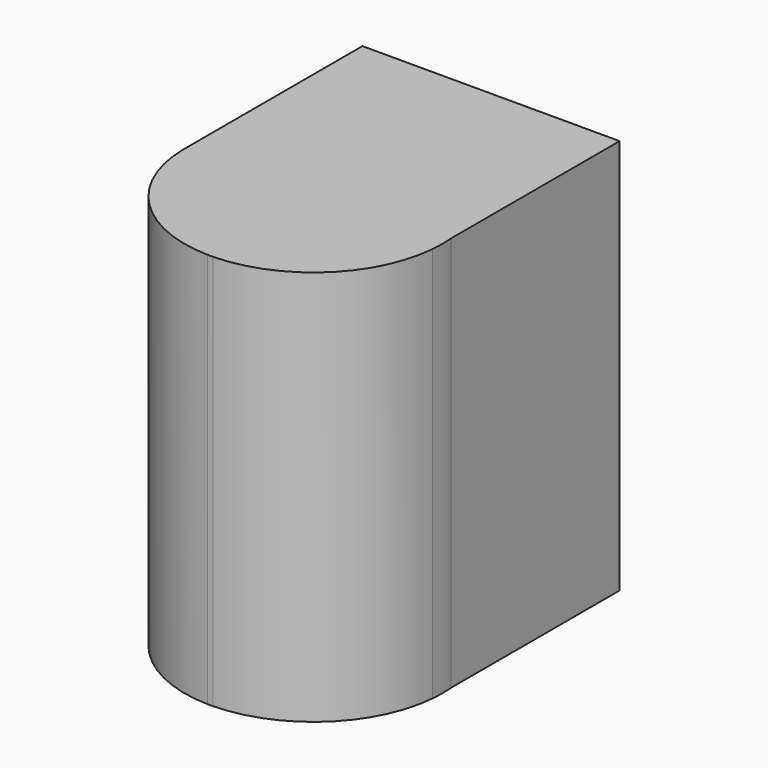
from build123d import *

# Parameters (mm, degrees)
F1_DEPTH = 508


with BuildPart() as f1:
    # F0 (on Top) → F1 (new body)
    with BuildSketch(Plane.XY):
        with BuildLine():
            Line((168.20993, 223.271681), (-161.99007, 223.271681))
            Line((-161.99007, 223.271681), (-161.99007, -58.067597))
            Line((-161.99007, -58.067597), (-161.99007, -66.242225))
            ThreePointArc((-161.99007, -66.242225), (-113.341942, -179.388298), (0, -227.578319))
            Line((0, -227.578319), (6.836314, -227.578319))
            ThreePointArc((6.836314, -227.578319), (116.300399, -183.126755), (168.20993, -76.996043))
            Line((168.20993, -76.996043), (168.20993, -47.313779))
            Line((168.20993, -47.313779), (168.20993, 223.271681))
        make_face()
        with BuildLine():
            Line((-161.99007, -66.242225), (-161.99007, -58.067597))
            ThreePointArc((-161.99007, -58.067597), (-162.040562, -62.154911), (-161.99007, -66.242225))
        make_face()
        with BuildLine():
            ThreePointArc((168.20993, -76.996043), (168.876876, -62.154911), (168.20993, -47.313779))
            Line((168.20993, -47.313779), (168.20993, -76.996043))
        make_face()
        with BuildLine():
            Line((6.836314, -227.578319), (0, -227.578319))
            ThreePointArc((0, -227.578319), (3.418157, -227.61363), (6.836314, -227.578319))
        make_face()
    extrude(amount=F1_DEPTH)


solid = f1.part
